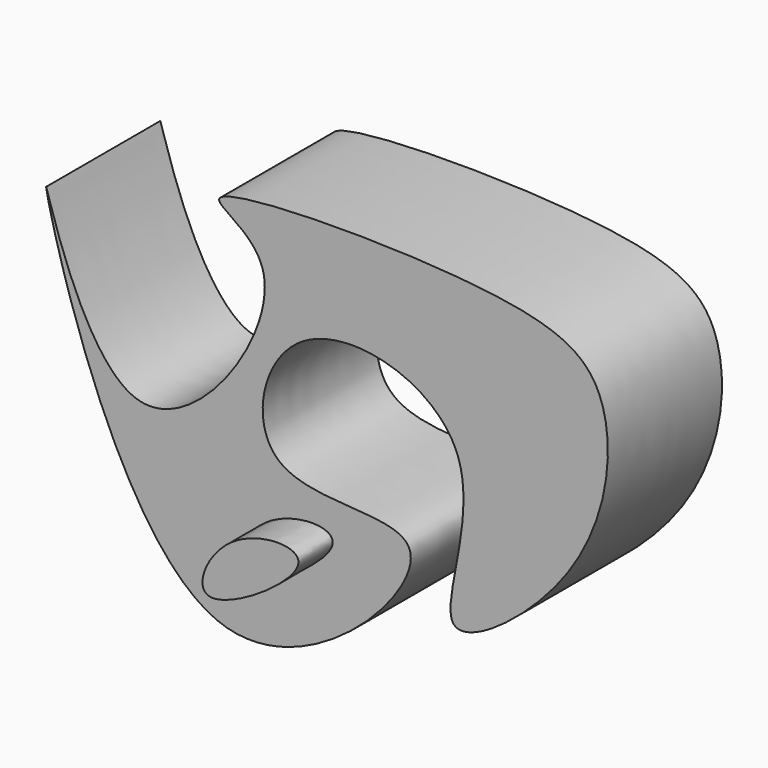
from build123d import *

# Parameters (mm, degrees)
F1_DEPTH = 25.4
F3_DEPTH = 7.62


with BuildPart() as f1:
    # F0 (on Front) → F1 (new body)
    with BuildSketch(Plane.XZ):
        with BuildLine():
            add(Edge.make_bspline(
                [(-51.0046258569, 44.979352504), (-51.3468170943, 44.9254733588), (-30.5639449846, -46.1684346739), (31.7139821003, 18.8341515143), (-17.2364046363, 7.3655672493), (-10.1087959279, 44.3288455721), (33.0959397166, 32.8679645644), (12.2692774907, -11.4061015976), (47.7627580903, 14.500474804), (51.3384997702, 45.66023477), (34.3870378786, 56.5859156766), (-35.1127758199, 55.7583471323), (-1.6527062305, 46.4418656643), (-38.2510994795, -6.0539133264), (-50.765011075, 45.0170806461), (-51.0046258569, 44.979352504)],
                knots=[0, 0, 0, 0, 0.1135524623, 0.2023647343, 0.2705061003, 0.3337627912, 0.4089793101, 0.4816346332, 0.5519895916, 0.6271022227, 0.6895672026, 0.7893385732, 0.8375618505, 0.9204864254, 1, 1, 1, 1], degree=3))
        make_face()
    extrude(amount=F1_DEPTH)

    # F2 (on face) → F3 (join)
    with BuildSketch(Plane.XZ.offset(25.4)):
        with BuildLine():
            add(Edge.make_bspline(
                [(-11.7702968419, 5.1845363341), (-16.2928782372, 2.1188713634), (-21.6454068887, -11.7096324967), (9.3719758474, 8.564147722), (-7.0178756589, 8.4059998907), (-11.7702968419, 5.1845363341)],
                knots=[0, 0, 0, 0, 0.2952715637, 0.6897225917, 1, 1, 1, 1], degree=3))
        make_face()
    extrude(amount=F3_DEPTH)


solid = f1.part
